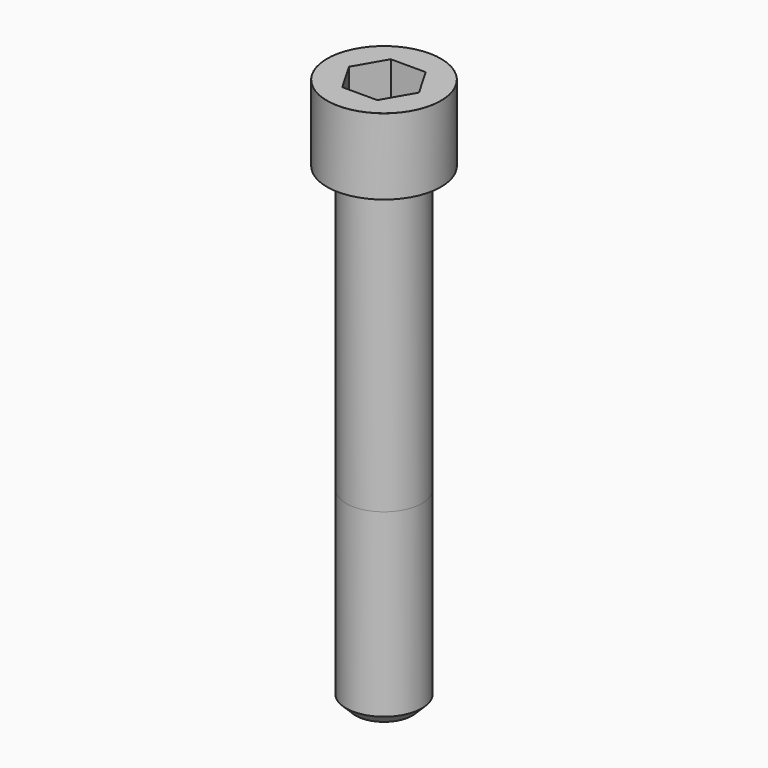
from build123d import *

# Parameters (mm, degrees)
POCKET_DEPTH = 19.15


with BuildPart() as part:
    # Sketch → Revolve (revolve)
    with BuildSketch(Plane.YZ):
        with BuildLine():
            Line((11.999, 0), (18, 0))
            Line((18, 0), (18, 23.97229))
            ThreePointArc((18, 23.97229), (17.991884, 23.991884), (17.97229, 24))
            Line((17.97229, 24), (0, 24))
            Line((0, -150), (0, 24))
            Line((9, -150), (0, -150))
            Line((12, -147), (9, -150))
            Line((12, -90), (12, -147))
            Line((11.999, 0), (12, -90))
        make_face()
    revolve(axis=Axis((0, 0, 0), (0, 0, 1)))

    # Sketch001 → Pocket (cut)
    with BuildSketch(Plane.XY.offset(24)):
        Polygon((11.056258, 0), (5.528129, 9.575), (-5.528129, 9.575), (-11.056258, 0), (-5.528129, -9.575), (5.528129, -9.575), align=None)
    extrude(amount=-POCKET_DEPTH, mode=Mode.SUBTRACT)


solid = part.part
